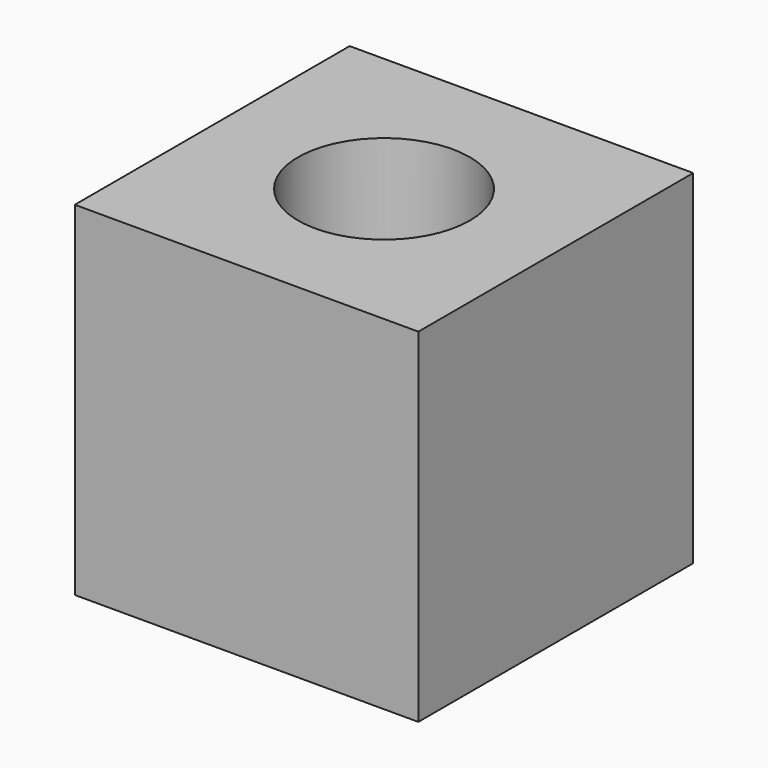
from build123d import *

# Parameters (mm, degrees)
F0_W     = 19.05
F0_H     = 19.05
F0_R     = 4.7625
F1_DEPTH = 9.525
F2_ANGLE = 90


with BuildPart() as f1:
    # F0 (on Front) → F1 (new body, symmetric)
    with BuildSketch(Plane.XZ):
        Rectangle(F0_W, F0_H)
        Circle(F0_R, mode=Mode.SUBTRACT)
    extrude(amount=F1_DEPTH, both=True)


with BuildPart() as f1_1:
    # F2: moved
    add(f1.part.rotate(Axis((4.7625, 0, 0), (1, 0, 0)), F2_ANGLE))


solid = f1_1.part
